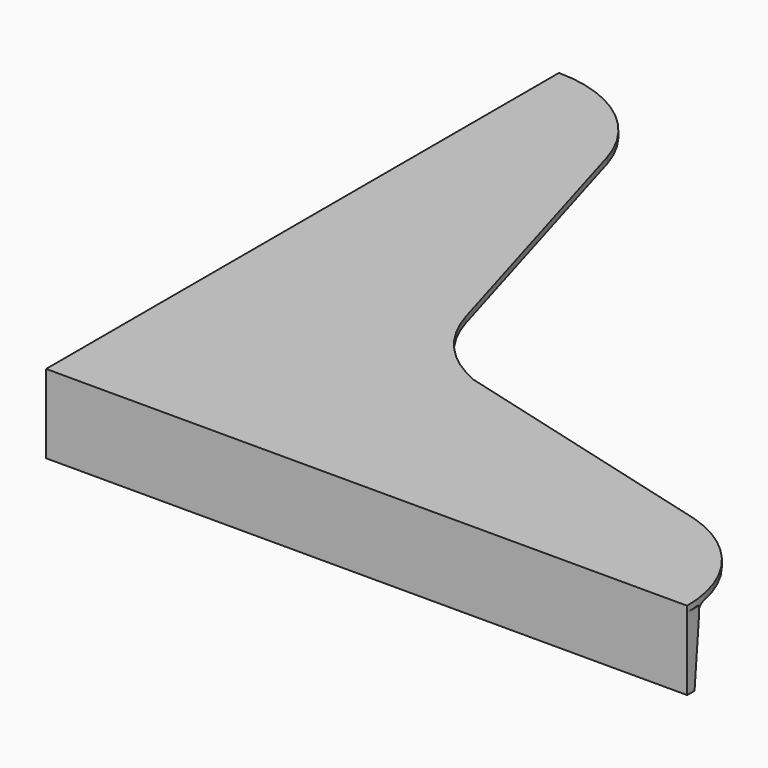
from build123d import *

# Parameters (mm, degrees)
PAD_DEPTH     = 2
SKETCH001_W   = 5
SKETCH001_H   = 25
PAD001_DEPTH  = 220
SKETCH002_W   = 5
SKETCH002_H   = 25
PAD002_DEPTH  = 220
FILLET_R      = 3
FILLET001_R   = 3
CHAMFER_ANGLE = 5
CHAMFER_SIZE  = 21


with BuildPart() as part:
    # Sketch → Pad (new body)
    with BuildSketch(Plane.XY):
        with BuildLine():
            Line((0, 0), (0, 220))
            ThreePointArc((40.642952, 189.925797), (25.279968, 211.663917), (0, 220))
            Line((40.642952, 189.925797), (68.840599, 93.983665))
            ThreePointArc((68.840599, 93.983665), (78.011612, 77.552663), (93.378142, 66.69195))
            Line((189.925797, 40.642952), (93.378142, 66.69195))
            ThreePointArc((220, 0), (211.663917, 25.279968), (189.925797, 40.642952))
            Line((220, 0), (0, 0))
        make_face()
    extrude(amount=PAD_DEPTH)

    # Sketch001 → Pad001 (join)
    with BuildSketch(Plane.YZ):
        with Locations((2.5, -12.5)):
            Rectangle(SKETCH001_W, SKETCH001_H)
    extrude(amount=PAD001_DEPTH)

    # Sketch002 → Pad002 (join)
    with BuildSketch(Plane.XZ):
        with Locations((2.5, -12.5)):
            Rectangle(SKETCH002_W, SKETCH002_H)
    extrude(amount=-PAD002_DEPTH)

    # Fillet
    fillet_edges = [part.edges().sort_by_distance(p)[0] for p in [
        (112.352429, 5, 0),
    ]]
    fillet(fillet_edges, radius=FILLET_R)

    # Fillet001
    fillet001_edges = [part.edges().sort_by_distance(p)[0] for p in [
        (5, 113.852429, 0),
        (5, 5, -14),
    ]]
    fillet(fillet001_edges, radius=FILLET001_R)

    # Chamfer
    chamfer_edges = [part.edges().sort_by_distance(p)[0] for p in [
        (114, 5, -25),
    ]]
    chamfer_side = part.faces().sort_by_distance((114.020092, 5, -13.997627))[0]
    chamfer(chamfer_edges, length=CHAMFER_SIZE, angle=CHAMFER_ANGLE, reference=chamfer_side)


solid = part.part
